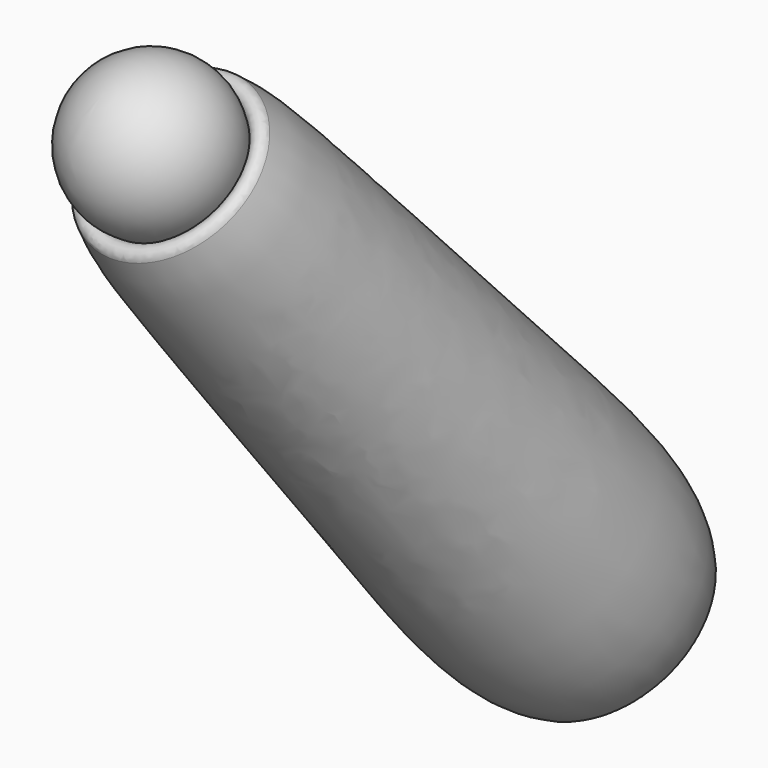
from build123d import *

# Parameters (mm, degrees)
FILLET093_R             = 3
FILLET094_R             = 3
BODY056_ROLL_ANGLE      = -96.018155
BODY056_PITCH_ANGLE     = -50.899336
BODY056_PLACEMENT_ANGLE = -102.530845


with BuildPart() as part:
    # Sketch188 → Revolution097 (revolve)
    with BuildSketch(Plane.XY):
        with BuildLine():
            Line((5.147949, 0), (267.265, 0))
            add(Edge.make_bspline(
                [(267.265, 0), (263.840897, 29.07099), (216.842712, 33.126465), (91.435905, 38.640092), (3.238657, 43.599544), (5.147949, 0)],
                knots=[0, 0, 0, 0, 0.333333, 0.666667, 1, 1, 1, 1], degree=3))
        make_face()
    revolve(axis=Axis((0, 0, 0), (1, 0, 0)))

    # Sketch189 → Groove091 (revolve, cut)
    with BuildSketch(Plane.XY):
        with BuildLine():
            Line((-35, 0), (35, 0))
            ThreePointArc((35, 0), (0, 35), (-35, 0))
        make_face()
    revolve(axis=Axis((0, 0, 0), (1, 0, 0)), mode=Mode.SUBTRACT)

    # Fillet093
    fillet093_edges = [part.edges().sort_by_distance(p)[0] for p in [
        (17.386166, -30.376327, 0),
    ]]
    fillet(fillet093_edges, radius=FILLET093_R)

    # Sketch190 → Groove092 (revolve, cut)
    with BuildSketch(Plane.XY):
        with BuildLine():
            Line((228, 0), (278, 0))
            ThreePointArc((278, 0), (253, 25), (228, 0))
        make_face()
    revolve(axis=Axis((0, 0, 0), (1, 0, 0)), mode=Mode.SUBTRACT)

    # Fillet094
    fillet094_edges = [part.edges().sort_by_distance(p)[0] for p in [
        (251.985595, -24.979411, 0),
    ]]
    fillet(fillet094_edges, radius=FILLET094_R)

    # Sketch190 → Revolution098 (revolve)
    with BuildSketch(Plane.XY):
        with BuildLine():
            Line((228, 0), (278, 0))
            ThreePointArc((278, 0), (253, 25), (228, 0))
        make_face()
    revolve(axis=Axis((0, 0, 0), (1, 0, 0)))


with BuildPart() as part_1:
    # Body056 roll: moved
    add(part.part.rotate(Axis((0, 0, 0), (1, 0, 0)), BODY056_ROLL_ANGLE))


with BuildPart() as part_2:
    # Body056 pitch: moved
    add(part_1.part.rotate(Axis((0, 0, 0), (0, 1, 0)), BODY056_PITCH_ANGLE))


with BuildPart() as part_3:
    # Body056 placement: moved
    add(part_2.part.moved(Location((-226.899274, 1152.699159, -98.437059))).rotate(Axis((-226.899274, 1152.699159, -98.437059), (0, 0, 1)), BODY056_PLACEMENT_ANGLE))


solid = part_3.part
